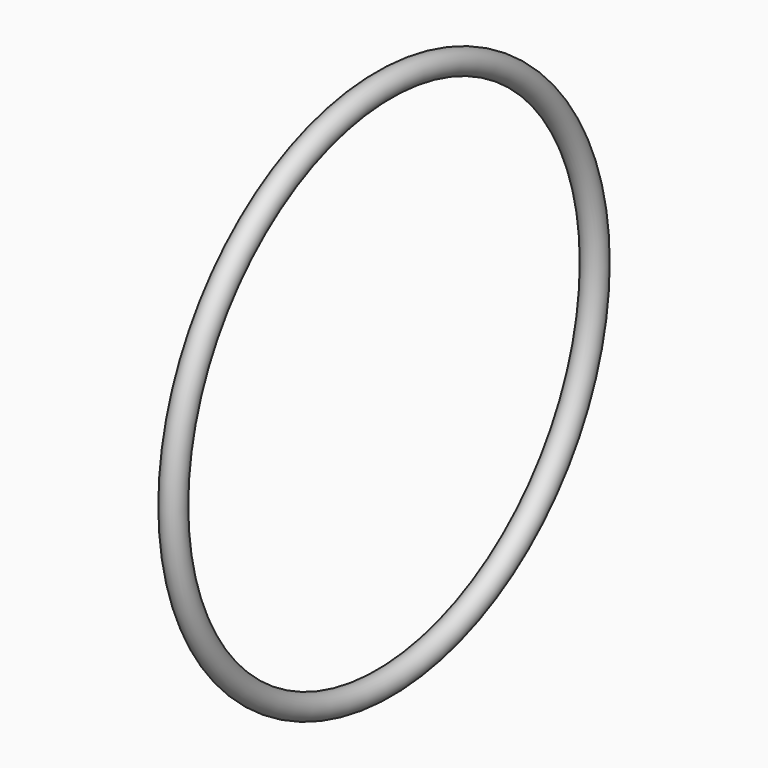
from build123d import *

# Parameters (mm, degrees)
SKETCH_R = 1


with BuildPart() as part:
    # Sketch → Revolution (revolve)
    with BuildSketch(Plane.XY):
        with Locations((0, 22.5)):
            Circle(SKETCH_R)
    revolve(axis=Axis((0, 0, 0), (1, 0, 0)))


solid = part.part
